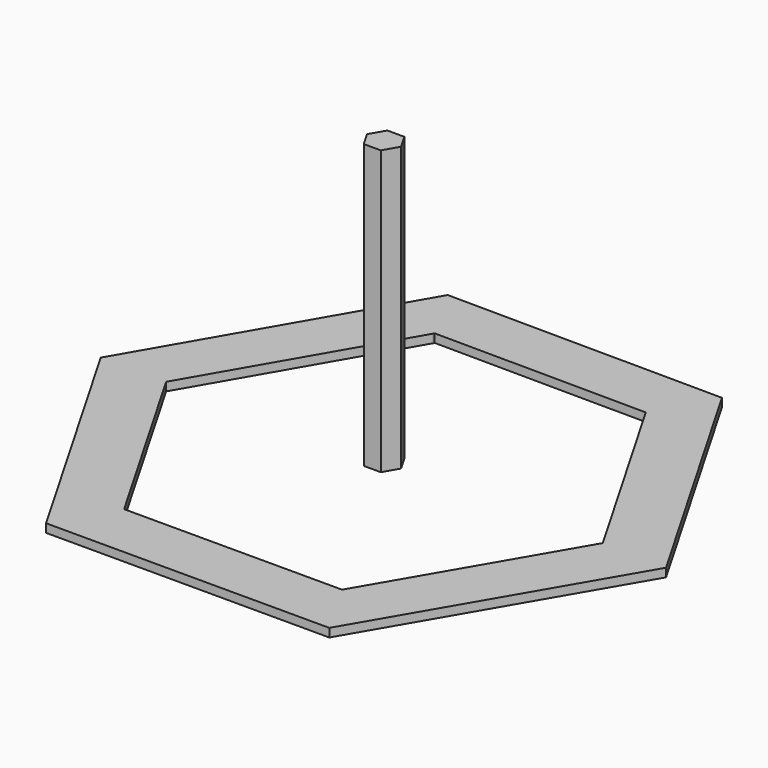
from build123d import *

# Parameters (mm, degrees)
F1_DEPTH = 100
F2_DEPTH = 3


with BuildPart() as f1:
    # F0 (on Top) → F1 (new body)
    with BuildSketch(Plane.XY):
        Polygon((3, 5.196152), (-3, 5.196152), (-6, 0), (-3, -5.196152), (3, -5.196152), (6, 0), align=None)
    extrude(amount=F1_DEPTH)


with BuildPart() as f2:
    # F0 (on Top) → F2 (new body)
    with BuildSketch(Plane.XY):
        Polygon((-37.447739, 68.335361), (-48.66778, 88.900557), (-100, 0), (-76.905375, 0), align=None)
        Polygon((48.66778, 88.222913), (-48.66778, 88.900557), (-37.447739, 68.335361), (-37.167897, 68.82001), (37.708741, 68.298724), align=None)
        Polygon((100, -0.589291), (48.66778, 88.222913), (37.708741, 68.298724), (37.728347, 68.298587), (77.203982, 0), (76.94521, -0.444759), align=None)
        Polygon((-76.905375, 0), (-100, 0), (-50, -86.60254), (-38.452995, -66.60254), (-76.905682, -0.000532), align=None)
        Polygon((49.955388, -86.60254), (100, -0.589291), (76.94521, -0.444759), (38.452995, -66.60254), (38.419343, -66.60254), align=None)
        Polygon((-38.452995, -66.60254), (-50, -86.60254), (49.955388, -86.60254), (38.419343, -66.60254), align=None)
    extrude(amount=-F2_DEPTH)


solid = Compound([f1.part, f2.part])
